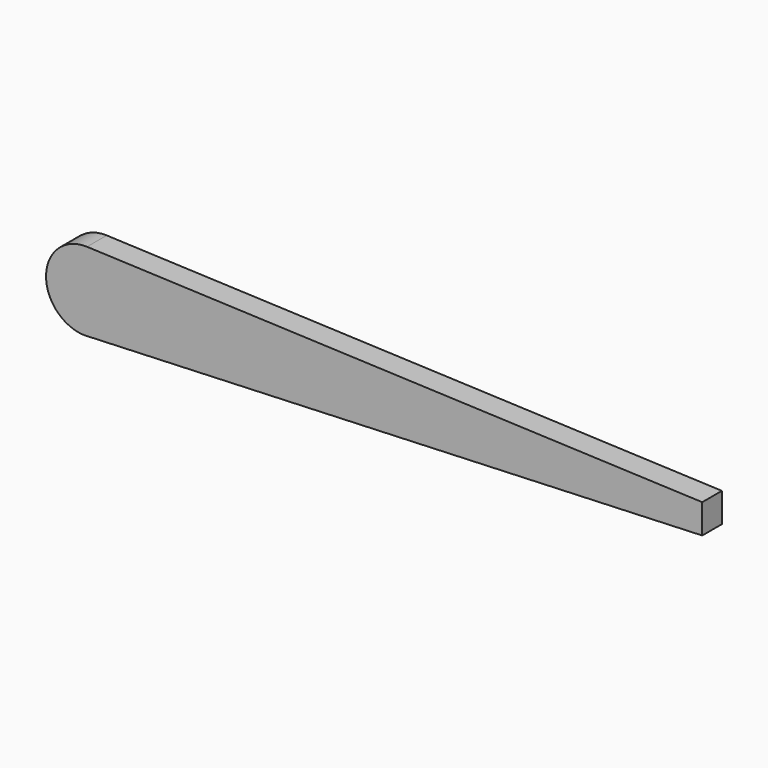
from build123d import *

# Parameters (mm, degrees)
F0_R     = 2.5
F0_R_2   = 0.75
F1_DEPTH = 1.2
F2_R     = 4.21648
F2_R_2   = 2.5
F2_R_3   = 2
F3_DEPTH = 0.6
F6_DEPTH = 5


with BuildPart() as f1:
    # F0 (on Front) → F1 (new body)
    with BuildSketch(Plane.XZ):
        Circle(F0_R)
        Circle(F0_R_2, mode=Mode.SUBTRACT)
    extrude(amount=F1_DEPTH)

    # F2 (on face) → F3 (cut)
    with BuildSketch(Plane.XZ.offset(1.2)):
        Circle(F2_R)
        Circle(F2_R_2, mode=Mode.SUBTRACT)
        Circle(F2_R_2)
        Circle(F2_R_3, mode=Mode.SUBTRACT)
    extrude(amount=-F3_DEPTH, mode=Mode.SUBTRACT)


with BuildPart() as f4_1:
    # F4: copy of F1
    add(f1.part)


with BuildPart() as f6:
    # F5 (on Front) → F6 (new body)
    with BuildSketch(Plane.XZ):
        with BuildLine():
            Line((100, 2.963339), (-25, 8))
            ThreePointArc((-25, 8), (-33.322346, 0.322346), (-25.644693, -8))
            Line((-25.644693, -8), (100, -3))
            Line((100, -3), (100, 2.963339))
        make_face()
    extrude(amount=F6_DEPTH)


solid = Compound([f1.part, f6.part])
